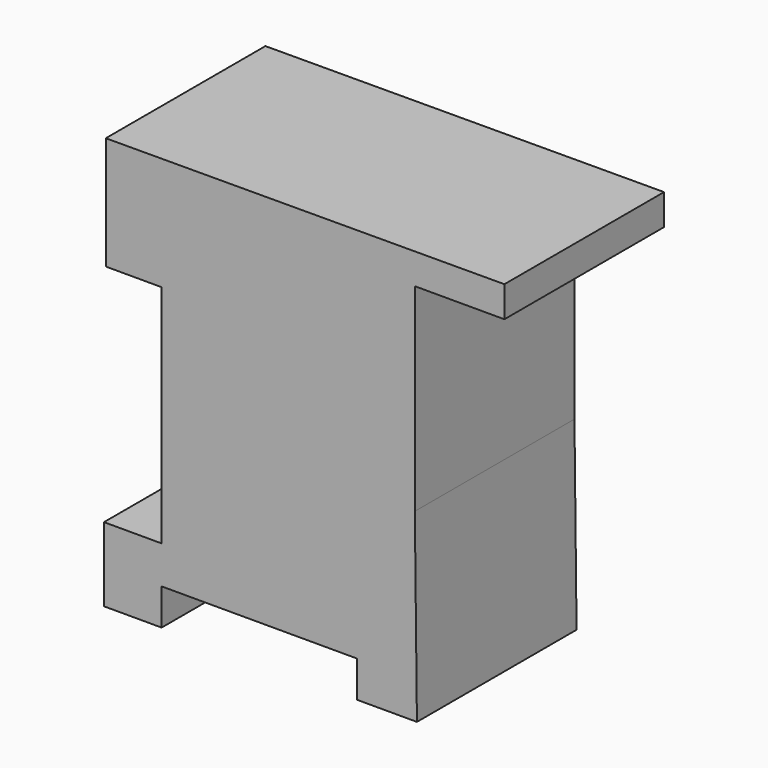
from build123d import *

# Parameters (mm, degrees)
F1_DEPTH = 60


with BuildPart() as f1:
    # F0 (on Front) → F1 (new body)
    with BuildSketch(Plane.XZ):
        Polygon((-38.070522, 0), (0, 0), (38.070526, 0), (38.070526, 59.581913), (64.998448, 59.581913), (64.998448, 68.867408), (-54.863341, 68.531811), (-54.863341, 34.555282), (-38.070522, 34.555282), align=None)
        Polygon((38.070526, 0), (0, 0), (-38.070522, 0), (-38.070522, -33.273019), (-55.403445, -33.273019), (-55.403445, -55.558201), (-38.070522, -55.558201), (-38.070522, -44.641409), (20.627134, -44.641409), (20.627134, -55.558201), (38.700473, -55.558201), align=None)
    extrude(amount=F1_DEPTH)


solid = f1.part
